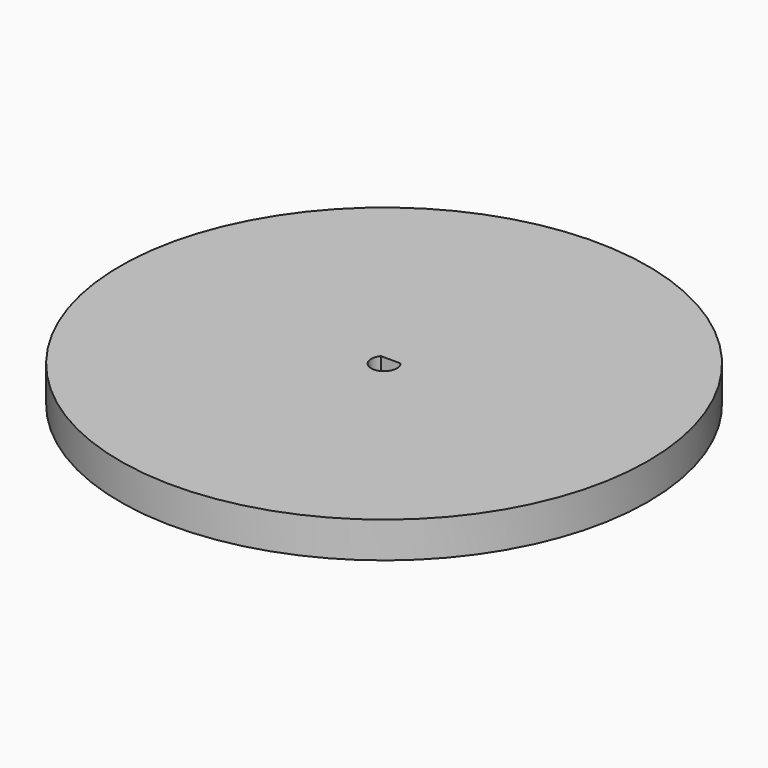
from build123d import *

# Parameters (mm, degrees)
F0_R     = 31.75
F1_DEPTH = 4.318
F3_DEPTH = 4.318


with BuildPart() as f1:
    # F0 (on Top) → F1 (new body)
    with BuildSketch(Plane.XY):
        Circle(F0_R)
    extrude(amount=F1_DEPTH)

    # F2 (on face) → F3 (cut, through all)
    with BuildSketch(Plane.XY.offset(4.318)):
        with BuildLine():
            ThreePointArc((0, -1.55), (1.096016, -1.096016), (1.55, 0))
            ThreePointArc((1.55, 0), (1.455699, 0.53239), (1.184272, 1))
            Line((1.184272, 1), (0, 1))
            Line((0, 1), (0, -1.55))
        make_face()
        with BuildLine():
            ThreePointArc((-1.184272, 1), (-1.405792, -0.652878), (0, -1.55))
            Line((0, -1.55), (0, 1))
            Line((0, 1), (-1.184272, 1))
        make_face()
    extrude(amount=-F3_DEPTH, mode=Mode.SUBTRACT)


solid = f1.part
